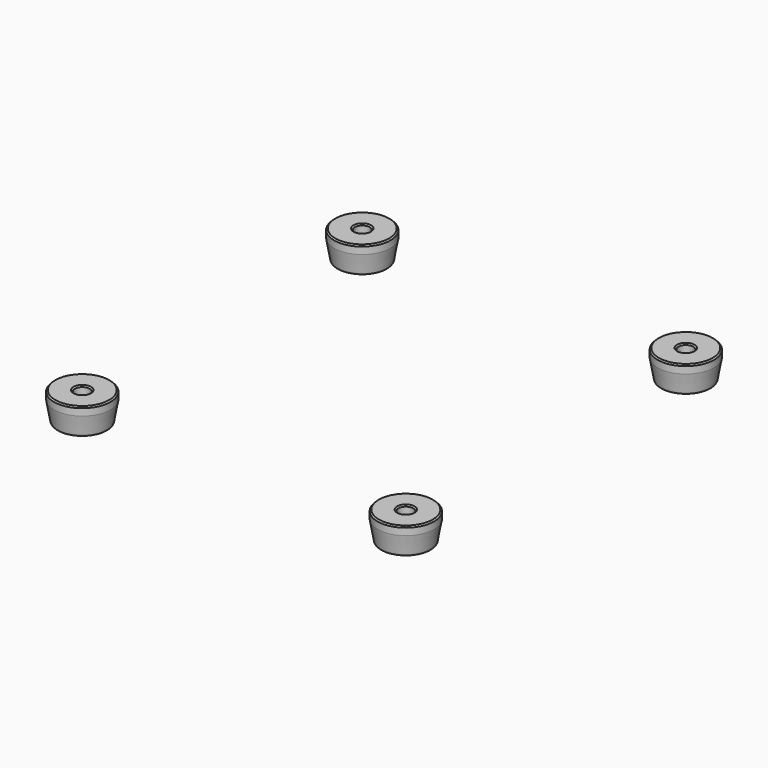
from build123d import *

# Parameters (mm, degrees)
FILLET002_R      = 0.5
CHAMFER003_SIZE  = 0.4
ARRAY004_X_COUNT = 2
ARRAY004_X_PITCH = 98
ARRAY004_Y_COUNT = 2
ARRAY004_Y_PITCH = 106


with BuildPart() as part:
    # Sketch023 → Revolution001 (revolve)
    with BuildSketch(Plane.XZ):
        Polygon((2.25, 0), (2.25, 2.5), (8.557962, 2.5), (8.557962, 0), (7.5, -6), (4.25, -6), (4.25, 0), align=None)
    revolve(axis=Axis((0, 0, 0), (0, 0, 1)))

    # Fillet002
    fillet002_edges = [part.edges().sort_by_distance(p)[0] for p in [
        (-7.5, 0, -6),
        (-4.25, 0, -6),
    ]]
    fillet(fillet002_edges, radius=FILLET002_R)

    # Chamfer003
    chamfer003_edges = [part.edges().sort_by_distance(p)[0] for p in [
        (-2.25, 0, 2.5),
        (-8.557962, 0, 2.5),
    ]]
    chamfer(chamfer003_edges, length=CHAMFER003_SIZE)


with BuildPart() as part_1:
    # Body006 placement: moved
    add(part.part.moved(Location((-49, -53, 0.5))))

    # Array004 X: part ×2


with BuildPart() as part_2:
    add(part_1.part)
    with Locations(*[(i * ARRAY004_X_PITCH, 0, 0) for i in range(1, ARRAY004_X_COUNT)]):
        add(part_1.part)

    # Array004 Y: part ×2


with BuildPart() as part_3:
    add(part_2.part)
    with Locations(*[(0, i * ARRAY004_Y_PITCH, 0) for i in range(1, ARRAY004_Y_COUNT)]):
        add(part_2.part)


with BuildPart() as part_4:
    # Array004 placement: moved
    add(part_3.part.moved(Location((0, 0, -3))))


solid = part_4.part
